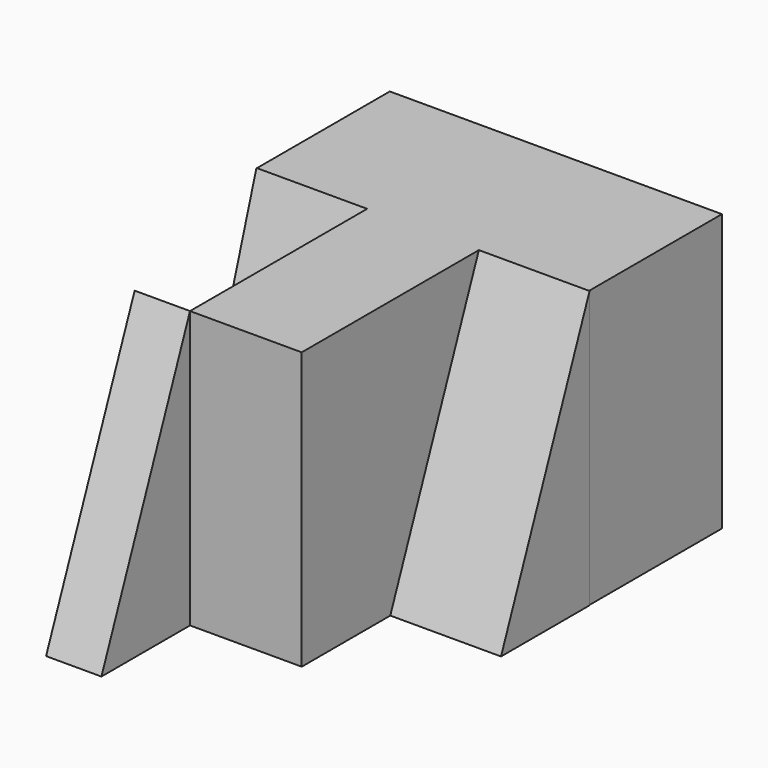
from build123d import *

# Parameters (mm, degrees)
F1_DEPTH = 31.75
F3_DEPTH = 12.7
F5_DEPTH = 12.7
F7_DEPTH = 6.35


with BuildPart() as f1:
    # F0 (on Top) → F1 (new body)
    with BuildSketch(Plane.XY):
        Polygon((15.9774183193, 25.4), (15.9774183193, 0), (28.7944694649, 0), (28.7944694649, 25.4), (41.4359450386, 25.4), (41.4359450386, 44.45), (3.3359450386, 44.45), (3.3359450386, 25.4), align=None)
    extrude(amount=F1_DEPTH)


with BuildPart() as f3:
    # F2 (on face) → F3 (new body)
    with BuildSketch(Plane(origin=(15.9774183193, 0, 0), x_dir=(0, -1, 0), z_dir=(-1, 0, 0))):
        Polygon((-15.4029941186, 0), (-25.4, 31.75), (-25.4, 0), align=None)
    extrude(amount=F3_DEPTH)


with BuildPart() as f5:
    # F4 (on face) + F3_face (on face) → F5 (new body)
    with BuildSketch(Plane.YZ.offset(28.7944694649)):
        Polygon((25.4, 0), (25.4, 31.75), (12.7, 0), align=None)
    with BuildSketch(Plane(origin=(3.2774183193, 22.0676647062, 10.5833333333), x_dir=(0, -1, 0), z_dir=(-1, 0, 0))):
        Polygon((6.6646705876, -10.5833333333), (-3.3323352938, 21.1666666667), (-3.3323352938, -10.5833333333), align=None)
    extrude(amount=F5_DEPTH, dir=(1, 0, 0))


with BuildPart() as f7:
    # F6 (on face) → F7 (new body)
    with BuildSketch(Plane(origin=(15.9774183193, 0, 0), x_dir=(0, -1, 0), z_dir=(-1, 0, 0))):
        Polygon((12.7, 0), (0, 31.75), (0, 0), align=None)
    extrude(amount=F7_DEPTH)


solid = Compound([f1.part, f3.part, f5.part, f7.part])
